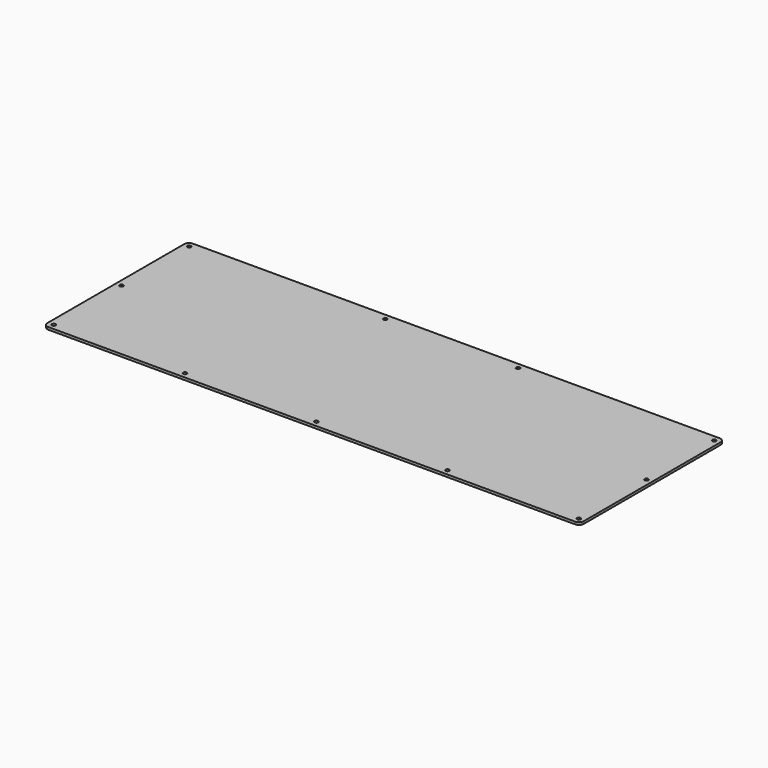
from build123d import *

# Parameters (mm, degrees)
F1_DEPTH = 1.5


with BuildPart() as f1:
    # F0 (on Top) → F1 (new body)
    with BuildSketch(Plane.XY):
        Polygon((162.399336, 55.615647), (162.163336, 55.624647), (-162.161964, 55.625647), (-162.397614, 55.615647), (-162.631884, 55.588647), (-162.863394, 55.542647), (-163.089384, 55.478647), (-163.311254, 55.397647), (-163.523464, 55.297647), (-163.730174, 55.182647), (-163.925854, 55.052647), (-164.110514, 54.906647), (-164.284146, 54.746647), (-164.444, 54.573647), (-164.590071, 54.388647), (-164.719608, 54.192647), (-164.835361, 53.986647), (-164.934581, 53.773647), (-165.015885, 53.552647), (-165.079275, 53.325647), (-165.126128, 53.094647), (-165.152311, 52.860647), (-165.161957, 52.624647), (-165.163335, -52.625653), (-165.152311, -52.861303), (-165.126128, -53.095573), (-165.079275, -53.325703), (-165.015885, -53.553073), (-164.934581, -53.774943), (-164.835361, -53.987153), (-164.719608, -54.193863), (-164.590071, -54.389543), (-164.444, -54.574203), (-164.284146, -54.747835), (-164.110514, -54.907689), (-163.925854, -55.05376), (-163.730174, -55.183297), (-163.523464, -55.29905), (-163.311254, -55.396892), (-163.089384, -55.479574), (-162.863394, -55.542964), (-162.631884, -55.589817), (-162.397614, -55.616), (-162.161964, -55.625646), (162.163336, -55.625646), (162.399336, -55.616), (162.633336, -55.589817), (162.863336, -55.542964), (163.090336, -55.479574), (163.312336, -55.396892), (163.525336, -55.29905), (163.731336, -55.183297), (163.927336, -55.05376), (164.112336, -54.907689), (164.285336, -54.747835), (164.445336, -54.574203), (164.591336, -54.389543), (164.721336, -54.193863), (164.836336, -53.987153), (164.934336, -53.774943), (165.017336, -53.553073), (165.081336, -53.325703), (165.127336, -53.095573), (165.154336, -52.861303), (165.163336, -52.625653), (165.163336, 52.624647), (165.154336, 52.860647), (165.127336, 53.094647), (165.081336, 53.325647), (165.017336, 53.552647), (164.934336, 53.773647), (164.836336, 53.986647), (164.721336, 54.192647), (164.591336, 54.388647), (164.445336, 54.573647), (164.285336, 54.746647), (164.112336, 54.906647), (163.927336, 55.052647), (163.731336, 55.182647), (163.525336, 55.297647), (163.312336, 55.397647), (163.090336, 55.478647), (162.863336, 55.542647), (162.633336, 55.588647), align=None)
        Polygon((-162.327334, -51.211803), (-162.011764, -51.051923), (-161.661744, -50.995443), (-161.313094, -51.051923), (-160.997534, -51.211803), (-160.748114, -51.461223), (-160.588234, -51.776783), (-160.531754, -52.125433), (-160.588234, -52.475453), (-160.748114, -52.789643), (-160.997534, -53.040443), (-161.313094, -53.200293), (-161.661744, -53.256803), (-162.011764, -53.200293), (-162.327334, -53.040443), (-162.576754, -52.789643), (-162.736604, -52.475453), (-162.793114, -52.125433), (-162.736604, -51.776783), (-162.576754, -51.461223), align=None, mode=Mode.SUBTRACT)
        Polygon((-81.494264, -51.211803), (-81.180264, -51.051923), (-80.831364, -50.995443), (-80.481364, -51.051923), (-80.167464, -51.211803), (-79.916564, -51.461223), (-79.755364, -51.776783), (-79.701364, -52.125433), (-79.755364, -52.475453), (-79.916564, -52.789643), (-80.167464, -53.040443), (-80.481364, -53.200293), (-80.831364, -53.256803), (-81.180264, -53.200293), (-81.494264, -53.040443), (-81.745064, -52.789643), (-81.906264, -52.475453), (-81.961664, -52.125433), (-81.906264, -51.776783), (-81.745064, -51.461223), align=None, mode=Mode.SUBTRACT)
        Polygon((-0.663664, -51.211803), (-0.348664, -51.051923), (0.001336, -50.995443), (0.350336, -51.051923), (0.665336, -51.211803), (0.915336, -51.461223), (1.074336, -51.776783), (1.131336, -52.125433), (1.074336, -52.475453), (0.915336, -52.789643), (0.665336, -53.040443), (0.350336, -53.200293), (0.001336, -53.256803), (-0.348664, -53.200293), (-0.663664, -53.040443), (-0.913664, -52.789643), (-1.073664, -52.475453), (-1.129664, -52.125433), (-1.073664, -51.776783), (-0.913664, -51.461223), align=None, mode=Mode.SUBTRACT)
        Polygon((80.167336, -51.211803), (80.483336, -51.051923), (80.831336, -50.995443), (81.181336, -51.051923), (81.495336, -51.211803), (81.746336, -51.461223), (81.906336, -51.776783), (81.961336, -52.125433), (81.906336, -52.475453), (81.746336, -52.789643), (81.495336, -53.040443), (81.181336, -53.200293), (80.831336, -53.256803), (80.483336, -53.200293), (80.167336, -53.040443), (79.917336, -52.789643), (79.756336, -52.475453), (79.701336, -52.125433), (79.756336, -51.776783), (79.917336, -51.461223), align=None, mode=Mode.SUBTRACT)
        Polygon((160.999336, -51.211803), (161.314336, -51.051923), (161.664336, -50.995443), (162.013336, -51.051923), (162.327336, -51.211803), (162.578336, -51.461223), (162.738336, -51.776783), (162.794336, -52.125433), (162.738336, -52.475453), (162.578336, -52.789643), (162.327336, -53.040443), (162.013336, -53.200293), (161.664336, -53.256803), (161.314336, -53.200293), (160.999336, -53.040443), (160.749336, -52.789643), (160.589336, -52.475453), (160.533336, -52.125433), (160.589336, -51.776783), (160.749336, -51.461223), align=None, mode=Mode.SUBTRACT)
        Polygon((-162.327334, 0.913847), (-162.011764, 1.075047), (-161.661744, 1.130047), (-161.313094, 1.075047), (-160.997534, 0.913847), (-160.748114, 0.663047), (-160.588234, 0.349047), (-160.531754, 0.000147), (-160.588234, -0.349853), (-160.748114, -0.663753), (-160.997534, -0.914653), (-161.313094, -1.074753), (-161.661744, -1.129853), (-162.011764, -1.074753), (-162.327334, -0.914653), (-162.576754, -0.663753), (-162.736604, -0.349853), (-162.793114, 0.000147), (-162.736604, 0.349047), (-162.576754, 0.663047), align=None, mode=Mode.SUBTRACT)
        Polygon((-162.327334, 53.039647), (-162.011764, 53.199647), (-161.661744, 53.255647), (-161.313094, 53.199647), (-160.997534, 53.039647), (-160.748114, 52.790647), (-160.588234, 52.474647), (-160.531754, 52.124647), (-160.588234, 51.775647), (-160.748114, 51.460647), (-160.997534, 51.210647), (-161.313094, 51.050647), (-161.661744, 50.994647), (-162.011764, 51.050647), (-162.327334, 51.210647), (-162.576754, 51.460647), (-162.736604, 51.775647), (-162.793114, 52.124647), (-162.736604, 52.474647), (-162.576754, 52.790647), align=None, mode=Mode.SUBTRACT)
        Polygon((-41.494264, 53.039647), (-41.180264, 53.199647), (-40.831364, 53.255647), (-40.481364, 53.199647), (-40.167464, 53.039647), (-39.916564, 52.790647), (-39.755364, 52.474647), (-39.701364, 52.124647), (-39.755364, 51.775647), (-39.916564, 51.460647), (-40.167464, 51.210647), (-40.481364, 51.050647), (-40.831364, 50.994647), (-41.180264, 51.050647), (-41.494264, 51.210647), (-41.745064, 51.460647), (-41.906264, 51.775647), (-41.961664, 52.124647), (-41.906264, 52.474647), (-41.745064, 52.790647), align=None, mode=Mode.SUBTRACT)
        Polygon((160.999336, 0.913847), (161.314336, 1.075047), (161.664336, 1.130047), (162.013336, 1.075047), (162.327336, 0.913847), (162.578336, 0.663047), (162.738336, 0.349047), (162.794336, 0.000147), (162.738336, -0.349853), (162.578336, -0.663753), (162.327336, -0.914653), (162.013336, -1.074753), (161.664336, -1.129853), (161.314336, -1.074753), (160.999336, -0.914653), (160.749336, -0.663753), (160.589336, -0.349853), (160.533336, 0.000147), (160.589336, 0.349047), (160.749336, 0.663047), align=None, mode=Mode.SUBTRACT)
        Polygon((40.167336, 53.039647), (40.483336, 53.199647), (40.831336, 53.255647), (41.181336, 53.199647), (41.495336, 53.039647), (41.746336, 52.790647), (41.906336, 52.474647), (41.961336, 52.124647), (41.906336, 51.775647), (41.746336, 51.460647), (41.495336, 51.210647), (41.181336, 51.050647), (40.831336, 50.994647), (40.483336, 51.050647), (40.167336, 51.210647), (39.917336, 51.460647), (39.756336, 51.775647), (39.701336, 52.124647), (39.756336, 52.474647), (39.917336, 52.790647), align=None, mode=Mode.SUBTRACT)
        Polygon((160.999336, 53.039647), (161.314336, 53.199647), (161.664336, 53.255647), (162.013336, 53.199647), (162.327336, 53.039647), (162.578336, 52.790647), (162.738336, 52.474647), (162.794336, 52.124647), (162.738336, 51.775647), (162.578336, 51.460647), (162.327336, 51.210647), (162.013336, 51.050647), (161.664336, 50.994647), (161.314336, 51.050647), (160.999336, 51.210647), (160.749336, 51.460647), (160.589336, 51.775647), (160.533336, 52.124647), (160.589336, 52.474647), (160.749336, 52.790647), align=None, mode=Mode.SUBTRACT)
    extrude(amount=F1_DEPTH)


solid = f1.part
